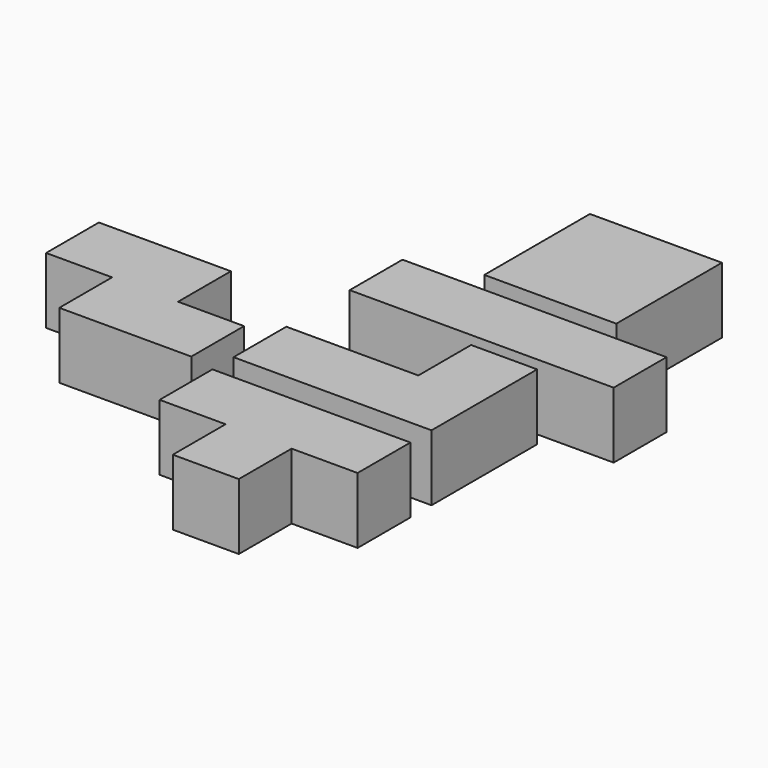
from build123d import *

# Parameters (mm, degrees)
BOX001_W     = 10
BOX001_H     = 10
BOX001_DEPTH = 10
BOX_W        = 10
BOX_H        = 10
BOX_DEPTH    = 10
BOX003_W     = 10
BOX003_H     = 10
BOX003_DEPTH = 10
BOX002_W     = 10
BOX002_H     = 10
BOX002_DEPTH = 10
BOX006_W     = 10
BOX006_H     = 10
BOX006_DEPTH = 10
BOX005_W     = 10
BOX005_H     = 10
BOX005_DEPTH = 10
BOX004_W     = 10
BOX004_H     = 10
BOX004_DEPTH = 10
BOX007_W     = 10
BOX007_H     = 10
BOX007_DEPTH = 10
BOX008_W     = 20
BOX008_H     = 20
BOX008_DEPTH = 10
BOX009_W     = 10
BOX009_H     = 10
BOX009_DEPTH = 10
BOX010_W     = 10
BOX010_H     = 10
BOX010_DEPTH = 10
BOX011_W     = 10
BOX011_H     = 10
BOX011_DEPTH = 10
BOX012_W     = 10
BOX012_H     = 10
BOX012_DEPTH = 10
BOX014_W     = 10
BOX014_H     = 10
BOX014_DEPTH = 10
BOX015_W     = 10
BOX015_H     = 10
BOX015_DEPTH = 10
BOX016_W     = 10
BOX016_H     = 10
BOX016_DEPTH = 10
BOX013_W     = 10
BOX013_H     = 10
BOX013_DEPTH = 10


with BuildPart() as cubo001:
    # Box001 → Box001 (new body)
    with BuildSketch(Plane.XY):
        with Locations((5, 5)):
            Rectangle(BOX001_W, BOX001_H)
    extrude(amount=BOX001_DEPTH)


with BuildPart() as cubo:
    # Box → Box (new body)
    with BuildSketch(Plane(origin=(10, 0, 0), x_dir=(1, 0, 0), z_dir=(0, 0, 1))):
        with Locations((5, 5)):
            Rectangle(BOX_W, BOX_H)
    extrude(amount=BOX_DEPTH)


with BuildPart() as fusion:
    # Fusion base: copy of Cubo
    add(cubo.part)

    # Fusion: union Cubo001
    add(cubo001.part)


with BuildPart() as cubo003:
    # Box003 → Box003 (new body)
    with BuildSketch(Plane(origin=(-10, 0, 0), x_dir=(1, 0, 0), z_dir=(0, 0, 1))):
        with Locations((5, 5)):
            Rectangle(BOX003_W, BOX003_H)
    extrude(amount=BOX003_DEPTH)


with BuildPart() as fusion001:
    # Fusion001 base: copy of Cubo
    add(cubo.part)

    # Fusion001: union Cubo001, Fusion, Cubo003
    add(cubo001.part)
    add(fusion.part)
    add(cubo003.part)


with BuildPart() as cubo002:
    # Box002 → Box002 (new body)
    with BuildSketch(Plane(origin=(20, 0, 0), x_dir=(1, 0, 0), z_dir=(0, 0, 1))):
        with Locations((5, 5)):
            Rectangle(BOX002_W, BOX002_H)
    extrude(amount=BOX002_DEPTH)


with BuildPart() as fusion002:
    # Fusion002 base: copy of Cubo
    add(cubo.part)

    # Fusion002: union Cubo001, Fusion, Cubo003, Fusion001, Cubo002
    add(cubo001.part)
    add(fusion.part)
    add(cubo003.part)
    add(fusion001.part)
    add(cubo002.part)


with BuildPart() as fusion002_1:
    # Fusion002 placement: moved
    add(fusion002.part.moved(Location((0, 19, 0))))


with BuildPart() as cubo006:
    # Box006 → Box006 (new body)
    with BuildSketch(Plane(origin=(10, 0, 0), x_dir=(1, 0, 0), z_dir=(0, 0, 1))):
        with Locations((5, 5)):
            Rectangle(BOX006_W, BOX006_H)
    extrude(amount=BOX006_DEPTH)


with BuildPart() as cubo005:
    # Box005 → Box005 (new body)
    with BuildSketch(Plane(origin=(0, -10, 0), x_dir=(1, 0, 0), z_dir=(0, 0, 1))):
        with Locations((5, 5)):
            Rectangle(BOX005_W, BOX005_H)
    extrude(amount=BOX005_DEPTH)


with BuildPart() as cubo004:
    # Box004 → Box004 (new body)
    with BuildSketch(Plane(origin=(-10, 0, 0), x_dir=(1, 0, 0), z_dir=(0, 0, 1))):
        with Locations((5, 5)):
            Rectangle(BOX004_W, BOX004_H)
    extrude(amount=BOX004_DEPTH)


with BuildPart() as fusion003:
    # Box007 → Box007 (new body)
    with BuildSketch(Plane.XY):
        with Locations((5, 5)):
            Rectangle(BOX007_W, BOX007_H)
    extrude(amount=BOX007_DEPTH)

    # Fusion003: union Cubo006, Cubo005, Cubo004
    add(cubo006.part)
    add(cubo005.part)
    add(cubo004.part)


with BuildPart() as fusion003_1:
    # Fusion003 placement: moved
    add(fusion003.part.moved(Location((0, -17, 0))))


with BuildPart() as cubo008:
    # Box008 → Box008 (new body)
    with BuildSketch(Plane(origin=(0, 32, 0), x_dir=(1, 0, 0), z_dir=(0, 0, 1))):
        with Locations((10, 10)):
            Rectangle(BOX008_W, BOX008_H)
    extrude(amount=BOX008_DEPTH)


with BuildPart() as cubo009:
    # Box009 → Box009 (new body)
    with BuildSketch(Plane(origin=(10, 0, 0), x_dir=(1, 0, 0), z_dir=(0, 0, 1))):
        with Locations((5, 5)):
            Rectangle(BOX009_W, BOX009_H)
    extrude(amount=BOX009_DEPTH)


with BuildPart() as fusion004:
    # Box010 → Box010 (new body)
    with BuildSketch(Plane.XY):
        with Locations((5, 5)):
            Rectangle(BOX010_W, BOX010_H)
    extrude(amount=BOX010_DEPTH)

    # Fusion004: union Cubo009
    add(cubo009.part)


with BuildPart() as cubo011:
    # Box011 → Box011 (new body)
    with BuildSketch(Plane(origin=(10, 0, 0), x_dir=(1, 0, 0), z_dir=(0, 0, 1))):
        with Locations((5, 5)):
            Rectangle(BOX011_W, BOX011_H)
    extrude(amount=BOX011_DEPTH)


with BuildPart() as fusion006:
    # Box012 → Box012 (new body)
    with BuildSketch(Plane.XY):
        with Locations((5, 5)):
            Rectangle(BOX012_W, BOX012_H)
    extrude(amount=BOX012_DEPTH)

    # Fusion005: union Cubo011
    add(cubo011.part)


with BuildPart() as fusion006_1:
    # Fusion005 placement: moved
    add(fusion006.part.moved(Location((10, -10, 0))))

    # Fusion006: union Fusion004
    add(fusion004.part)


with BuildPart() as fusion006_2:
    # Fusion006 placement: moved
    add(fusion006_1.part.moved(Location((-44, 4, 0))))


with BuildPart() as cubo014:
    # Box014 → Box014 (new body)
    with BuildSketch(Plane(origin=(-10, 0, 0), x_dir=(1, 0, 0), z_dir=(0, 0, 1))):
        with Locations((5, 5)):
            Rectangle(BOX014_W, BOX014_H)
    extrude(amount=BOX014_DEPTH)


with BuildPart() as cubo015:
    # Box015 → Box015 (new body)
    with BuildSketch(Plane(origin=(10, 0, 0), x_dir=(1, 0, 0), z_dir=(0, 0, 1))):
        with Locations((5, 5)):
            Rectangle(BOX015_W, BOX015_H)
    extrude(amount=BOX015_DEPTH)


with BuildPart() as cubo016:
    # Box016 → Box016 (new body)
    with BuildSketch(Plane(origin=(10, 10, 0), x_dir=(1, 0, 0), z_dir=(0, 0, 1))):
        with Locations((5, 5)):
            Rectangle(BOX016_W, BOX016_H)
    extrude(amount=BOX016_DEPTH)


with BuildPart() as fusion007:
    # Box013 → Box013 (new body)
    with BuildSketch(Plane.XY):
        with Locations((5, 5)):
            Rectangle(BOX013_W, BOX013_H)
    extrude(amount=BOX013_DEPTH)

    # Fusion007: union Cubo014, Cubo015, Cubo016
    add(cubo014.part)
    add(cubo015.part)
    add(cubo016.part)


with BuildPart() as fusion007_1:
    # Fusion007 placement: moved
    add(fusion007.part.moved(Location((0, -3, 0))))


solid = Compound([fusion002_1.part, fusion003_1.part, cubo008.part, fusion006_2.part, fusion007_1.part])
